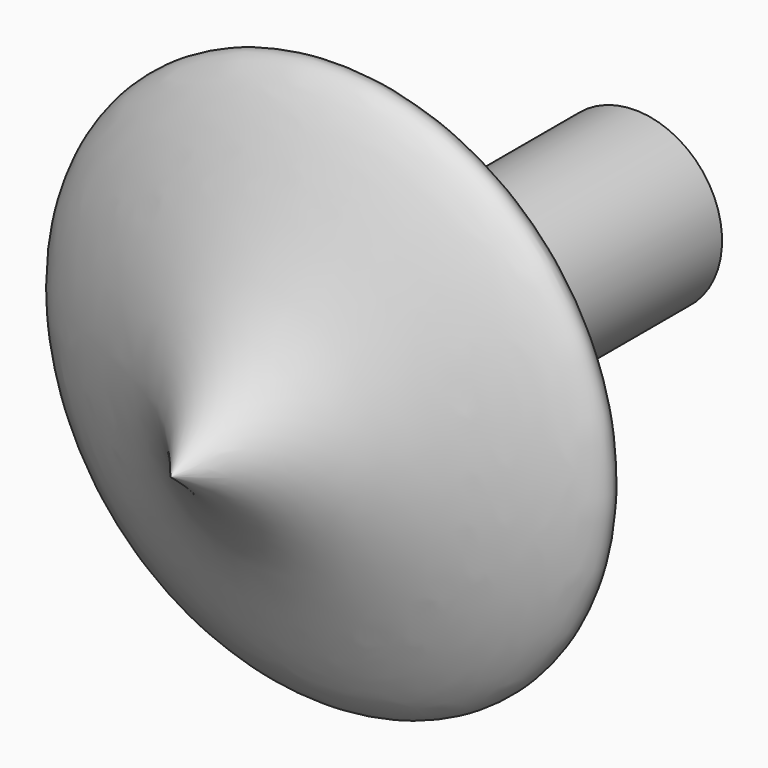
from build123d import *


with BuildPart() as f1:
    # F0 (on Top) → F1 (revolve)
    with BuildSketch(Plane.XY):
        with BuildLine():
            Line((0, -24.2161303759), (0, 31.1350226402))
            add(Edge.make_bspline(
                [(0, 31.1350226402), (-1.639304423, 24.4682702064), (-3.2786100212, 17.8015176311), (-10.378330946, 12.8203034401)],
                knots=[0, 0, 0, 0, 0.2433997007, 0.2433997007, 0.2433997007, 0.2433997007], degree=3))
            add(Edge.make_bspline(
                [(-10.378330946, 12.8203034401), (-18.3449423222, 7.2308728045), (-46.7900761349, 0.585933288), (-11.1774195109, -10.593430608), (-3.6365463232, -19.7840299026), (0, -24.2161303759)],
                knots=[0.2433997007, 0.2433997007, 0.2433997007, 0.2433997007, 0.5165190029, 0.7668447884, 1, 1, 1, 1], degree=3))
        make_face()
        with BuildLine():
            add(Edge.make_bspline(
                [(0, 31.1350226402), (-1.639304423, 24.4682702064), (-3.2786100212, 17.8015176311), (-10.378330946, 12.8203034401)],
                knots=[0, 0, 0, 0, 0.2433997007, 0.2433997007, 0.2433997007, 0.2433997007], degree=3))
            Line((0, 31.1350226402), (0, 46.3649518788))
            add(Edge.make_bspline(
                [(-10.378330946, 12.8203034401), (-8.7163690438, 23.8572220951), (-6.2091095205, 40.5076786408), (-1.5655353702, 44.8881268541), (0, 46.3649518788)],
                knots=[0, 0, 0, 0, 0.6628597566, 1, 1, 1, 1], degree=3))
        make_face()
        with BuildLine():
            Line((-10.378330946, 29.0159340948), (-10.378330946, 12.8203034401))
            add(Edge.make_bspline(
                [(-10.378330946, 12.8203034401), (-8.7163690438, 23.8572220951), (-6.2091095205, 40.5076786408), (-1.5655353702, 44.8881268541), (0, 46.3649518788)],
                knots=[0, 0, 0, 0, 0.6628597566, 1, 1, 1, 1], degree=3))
            Line((0, 46.3649518788), (-5.189165473, 45.7882583141))
            Line((-5.189165473, 45.7882583141), (-10.378330946, 29.0159340948))
        make_face()
        Polygon((-10.378330946, 45.2115647495), (-10.378330946, 29.0159340948), (-5.189165473, 45.7882583141), align=None)
    revolve(axis=Axis((0, 3.4594461322, 0), (0, -1, 0)))


solid = f1.part
